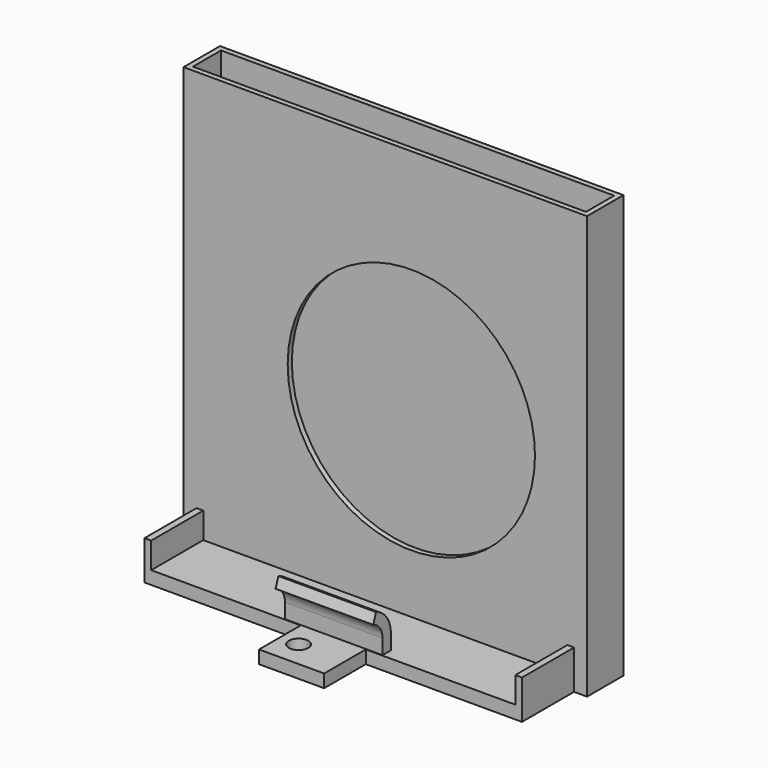
from build123d import *

# Parameters (mm, degrees)
F0_W     = 60.4
F0_H     = 5.4
F0_W_2   = 10
F0_H_2   = 8
F0_R     = 1.5
F0_W_3   = 1.0285907388
F0_H_3   = 10
F1_DEPTH = 2
F2_DEPTH = 65
F3_R     = 19
F4_DEPTH = 2
F5_DEPTH = 6
F6_W     = 15
F6_H     = 1.6


with BuildPart() as f1:
    # F0 (on Top) → F1 (new body)
    with BuildSketch(Plane.XY):
        Polygon((27.9714092612, -13.5), (27.9714092612, -3.5), (-27.9714092612, -3.5), (-27.9714092612, -13.5), (-5, -13.5), (5, -13.5), align=None)
        Polygon((29, -3.5), (31, -3.5), (31, 3.5), (-31, 3.5), (-31, -3.5), (-29, -3.5), (-27.9714092612, -3.5), (27.9714092612, -3.5), align=None)
        Rectangle(F0_W, F0_H, mode=Mode.SUBTRACT)
        Rectangle(F0_W, F0_H)
        with Locations((0, -17.5)):
            Rectangle(F0_W_2, F0_H_2)
        with Locations((-2.1274185274, -17.5)):
            Circle(F0_R, mode=Mode.SUBTRACT)
        with Locations((-28.4857046306, -8.5)):
            Rectangle(F0_W_3, F0_H_3)
        with Locations((28.4857046306, -8.5)):
            Rectangle(F0_W_3, F0_H_3)
    extrude(amount=F1_DEPTH)

    # F0 (on Top) → F2 (join)
    with BuildSketch(Plane.XY):
        Polygon((29, -3.5), (31, -3.5), (31, 3.5), (-31, 3.5), (-31, -3.5), (-29, -3.5), (-27.9714092612, -3.5), (27.9714092612, -3.5), align=None)
        Rectangle(F0_W, F0_H, mode=Mode.SUBTRACT)
    extrude(amount=F2_DEPTH)

    # F3 (on face) → F4 (cut)
    with BuildSketch(Plane.XZ.offset(3.5)):
        with Locations((4, 30)):
            Circle(F3_R)
    extrude(amount=-F4_DEPTH, mode=Mode.SUBTRACT)

    # F0 (on Top) → F5 (join)
    with BuildSketch(Plane.XY):
        with Locations((28.4857046306, -8.5)):
            Rectangle(F0_W_3, F0_H_3)
        with Locations((-28.4857046306, -8.5)):
            Rectangle(F0_W_3, F0_H_3)
    extrude(amount=F5_DEPTH)

    # F8: sweep along a path in F7
    with BuildLine(Plane.YZ) as f8_path:
        Line((-13.6184291914, 1.5092007816), (-13.6184291914, 4.3010520749))
        ThreePointArc((-13.6184291914, 4.3010520749), (-14.0722220518, 5.726785993), (-15.2666270733, 6.627919618))
    # F6 (on face) → F8 (sweep)
    with BuildSketch(Plane.XY.offset(2)):
        with Locations((0, -12.6052284613)):
            Rectangle(F6_W, F6_H)
    sweep(path=f8_path.line)


solid = f1.part
